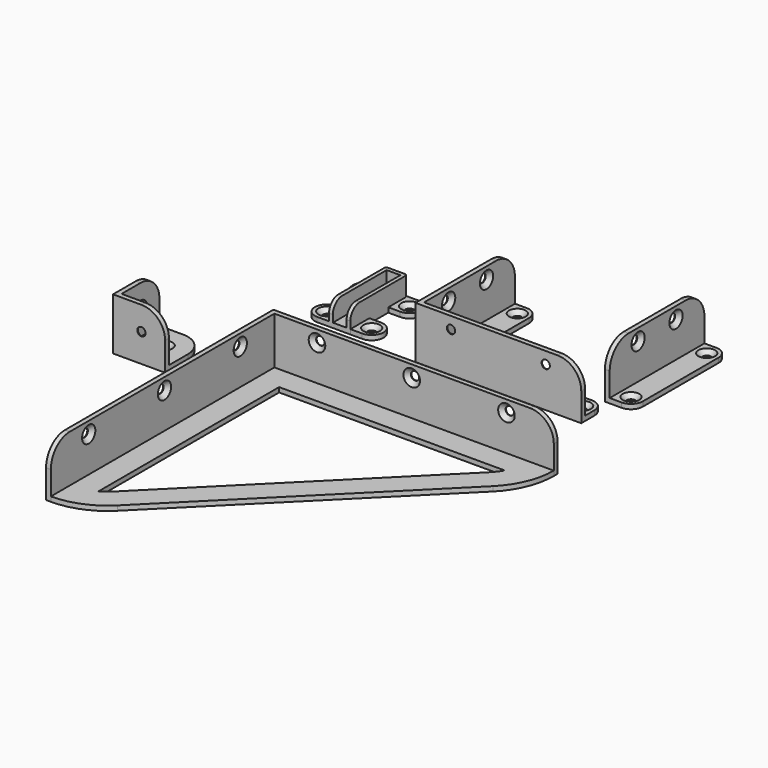
from build123d import *

# Parameters (mm, degrees)
F0_W                     = 5.8
F0_H                     = 28.4
F1_DEPTH                 = 2
F2_DEPTH                 = 10
F4_R                     = 5
F5_R                     = 1
F6_D                     = 3.5
F6_DEPTH                 = 20
F6_CSINK_D               = 7
F6_CSINK_ANGLE           = 90
F6_TIP                   = 1.0515060833
F11_DEPTH                = 2
F12_DEPTH                = 22
F8_W                     = 2
F8_H                     = 50
F13_R                    = 10
F13_2_R                  = 10
F13_3_R                  = 10
F13_4_R                  = 10
F23_D                    = 3.5
F23_DEPTH                = 20
F23_CSINK_D              = 7
F23_CSINK_ANGLE          = 90
F23_TIP                  = 1.0515060833
F23_ON_F15_D             = 3.5
F23_ON_F15_DEPTH         = 20
F23_ON_F15_CSINK_D       = 7
F23_ON_F15_CSINK_ANGLE   = 90
F23_ON_F15_TIP           = 1.0515060833
F23_ON_F16_D             = 3.5
F23_ON_F16_DEPTH         = 20
F23_ON_F16_CSINK_D       = 7
F23_ON_F16_CSINK_ANGLE   = 90
F23_ON_F16_TIP           = 1.0515060833
F23_ON_F16_2_D           = 3.5
F23_ON_F16_2_DEPTH       = 20
F23_ON_F16_2_CSINK_D     = 7
F23_ON_F16_2_CSINK_ANGLE = 90
F23_ON_F16_2_TIP         = 1.0515060833
F23_ON_F17_D             = 3.5
F23_ON_F17_DEPTH         = 20
F23_ON_F17_CSINK_D       = 7
F23_ON_F17_CSINK_ANGLE   = 90
F23_ON_F17_TIP           = 1.0515060833
F23_ON_F19_D             = 3.5
F23_ON_F19_DEPTH         = 20
F23_ON_F19_CSINK_D       = 7
F23_ON_F19_CSINK_ANGLE   = 90
F23_ON_F19_TIP           = 1.0515060833
F23_ON_F18_D             = 3.5
F23_ON_F18_DEPTH         = 20
F23_ON_F18_CSINK_D       = 7
F23_ON_F18_CSINK_ANGLE   = 90
F23_ON_F18_TIP           = 1.0515060833
F23_ON_F20_D             = 3.5
F23_ON_F20_DEPTH         = 20
F23_ON_F20_CSINK_D       = 7
F23_ON_F20_CSINK_ANGLE   = 90
F23_ON_F20_TIP           = 1.0515060833
F23_ON_F22_D             = 3.5
F23_ON_F22_DEPTH         = 20
F23_ON_F22_CSINK_D       = 7
F23_ON_F22_CSINK_ANGLE   = 90
F23_ON_F22_TIP           = 1.0515060833
F23_ON_F21_D             = 3.5
F23_ON_F21_DEPTH         = 20
F23_ON_F21_CSINK_D       = 7
F23_ON_F21_CSINK_ANGLE   = 90
F23_ON_F21_TIP           = 1.0515060833


with BuildPart() as f1:
    # F0 (on Top) → F1 (new body)
    with BuildSketch(Plane.XY):
        Polygon((4.5, 15), (-4.5, 15), (-4.5, -15), (-2.9, -15), (-2.9, 13.4), (2.9, 13.4), (2.9, -15), (4.5, -15), (4.5, -5), (4.5, 5), align=None)
        with BuildLine():
            Line((9.5, 15), (4.5, 15))
            Line((4.5, 15), (4.5, 5))
            Line((4.5, 5), (9.5, 5))
            ThreePointArc((9.5, 5), (14.5, 10), (9.5, 15))
        make_face()
        with Locations((0, -0.8)):
            Rectangle(F0_W, F0_H)
        with BuildLine():
            Line((9.5, -5), (4.5, -5))
            Line((4.5, -5), (4.5, -15))
            Line((4.5, -15), (9.5, -15))
            ThreePointArc((9.5, -15), (14.5, -10), (9.5, -5))
        make_face()
    extrude(amount=F1_DEPTH)

    # F0 (on Top) → F2 (join)
    with BuildSketch(Plane.XY):
        Polygon((4.5, 15), (-4.5, 15), (-4.5, -15), (-2.9, -15), (-2.9, 13.4), (2.9, 13.4), (2.9, -15), (4.5, -15), (4.5, -5), (4.5, 5), align=None)
    extrude(amount=F2_DEPTH)

    # F4
    f4_edges = [f1.edges().sort_by_distance(p)[0] for p in [
        (-3.7, -15, 10),
        (3.7, -15, 10),
    ]]
    fillet(f4_edges, radius=F4_R)

    # F5
    f5_edges = [f1.edges().sort_by_distance(p)[0] for p in [
        (4.5, 15, 6),
        (-4.5, 15, 5),
    ]]
    fillet(f5_edges, radius=F5_R)

    # F6
    with Locations(Plane.XY.offset(2)):
        with Locations((9.5, 10), (9.5, -10)):
            CounterSinkHole(F6_D / 2, F6_CSINK_D / 2, depth=F6_DEPTH, counter_sink_angle=F6_CSINK_ANGLE)
            with Locations((0, 0, -(F6_DEPTH + F6_TIP / 2))):  # 118° drill point
                Cone(0, F6_D / 2, F6_TIP, mode=Mode.SUBTRACT)


with BuildPart() as f7_1:
    # F7: instance of F1
    add(f1.part.mirror(Plane.YZ))


with BuildPart() as f11:
    # F8 (on Top) → F11 (new body)
    with BuildSketch(Plane.XY):
        with BuildLine():
            Line((40.5293784738, 33.0792527646), (35.5293784738, 33.0792527646))
            Line((35.5293784738, 33.0792527646), (35.5293784738, -14.9207472354))
            Line((35.5293784738, -14.9207472354), (103.5293784738, -14.9207472354))
            Line((103.5293784738, -14.9207472354), (103.5293784738, -9.9207472354))
            ThreePointArc((103.5293784738, -9.9207472354), (102.0649123797, -6.3852133295), (98.5293784738, -4.9207472354))
            Line((98.5293784738, -4.9207472354), (55.5293784738, -4.9207472354))
            ThreePointArc((55.5293784738, -4.9207472354), (48.4583106619, -1.9918150473), (45.5293784738, 5.0792527646))
            Line((45.5293784738, 5.0792527646), (45.5293784738, 28.0792527646))
            ThreePointArc((45.5293784738, 28.0792527646), (44.0649123797, 31.6147866705), (40.5293784738, 33.0792527646))
        make_face()
    extrude(amount=F11_DEPTH)

    # F8 (on Top) → F12 (join)
    with BuildSketch(Plane.XY):
        Polygon((35.5293784738, 33.0792527646), (33.5293784738, 33.0792527646), (33.5293784738, -16.9207472354), (103.5293784738, -16.9207472354), (103.5293784738, -14.9207472354), (35.5293784738, -14.9207472354), align=None)
    extrude(amount=F12_DEPTH)

    # F13
    f13_edges = [f11.edges().sort_by_distance(p)[0] for p in [
        (34.529378, 33.079253, 22),
        (103.529378, -15.920747, 22),
    ]]
    fillet(f13_edges, radius=F13_R)

    # F23
    with Locations(Plane.YZ.offset(35.5293784738)):
        with Locations((18.0792527646, 17), (-1.9207472354, 17)):
            CounterSinkHole(F23_D / 2, F23_CSINK_D / 2, depth=F23_DEPTH, counter_sink_angle=F23_CSINK_ANGLE)
            with Locations((0, 0, -(F23_DEPTH + F23_TIP / 2))):  # 118° drill point
                Cone(0, F23_D / 2, F23_TIP, mode=Mode.SUBTRACT)

    # F23 on F15
    with Locations(Plane(origin=(0, -14.9207472354, 0), x_dir=(-1, 0, 0), z_dir=(0, 1, 0))):
        with Locations((-48.5293784738, 17), (-88.5293784738, 17)):
            CounterSinkHole(F23_ON_F15_D / 2, F23_ON_F15_CSINK_D / 2, depth=F23_ON_F15_DEPTH, counter_sink_angle=F23_ON_F15_CSINK_ANGLE)
            with Locations((0, 0, -(F23_ON_F15_DEPTH + F23_ON_F15_TIP / 2))):  # 118° drill point
                Cone(0, F23_ON_F15_D / 2, F23_ON_F15_TIP, mode=Mode.SUBTRACT)

    # F23 on F16
    with Locations(Plane.XY.offset(2)):
        with Locations((98.5293784738, -9.9207472354), (40.5293784738, 28.0792527646), (40.5293784738, -9.9207472354), (107, 5), (107, 45)):
            CounterSinkHole(F23_ON_F16_D / 2, F23_ON_F16_CSINK_D / 2, depth=F23_ON_F16_DEPTH, counter_sink_angle=F23_ON_F16_CSINK_ANGLE)
            with Locations((0, 0, -(F23_ON_F16_DEPTH + F23_ON_F16_TIP / 2))):  # 118° drill point
                Cone(0, F23_ON_F16_D / 2, F23_ON_F16_TIP, mode=Mode.SUBTRACT)


with BuildPart() as f11b:
    # F8 (on Top) → F11, piece 2 (new body)
    with BuildSketch(Plane.XY):
        with BuildLine():
            Line((107, 50), (102, 50))
            Line((102, 50), (102, 0))
            Line((102, 0), (107, 0))
            ThreePointArc((107, 0), (110.5355339059, 1.4644660941), (112, 5))
            Line((112, 5), (112, 45))
            ThreePointArc((112, 45), (110.5355339059, 48.5355339059), (107, 50))
        make_face()
    extrude(amount=F11_DEPTH)

    # F8 (on Top) → F12, piece 2 (join)
    with BuildSketch(Plane.XY):
        with Locations((101, 25)):
            Rectangle(F8_W, F8_H)
    extrude(amount=F12_DEPTH)

    # F13#2
    f13_2_edges = [f11b.edges().sort_by_distance(p)[0] for p in [
        (101, 50, 22),
        (101, 0, 22),
    ]]
    fillet(f13_2_edges, radius=F13_2_R)

    # F23 on F16#2
    with Locations(Plane.XY.offset(2)):
        with Locations((98.5293784738, -9.9207472354), (40.5293784738, 28.0792527646), (40.5293784738, -9.9207472354), (107, 5), (107, 45)):
            CounterSinkHole(F23_ON_F16_2_D / 2, F23_ON_F16_2_CSINK_D / 2, depth=F23_ON_F16_2_DEPTH, counter_sink_angle=F23_ON_F16_2_CSINK_ANGLE)
            with Locations((0, 0, -(F23_ON_F16_2_DEPTH + F23_ON_F16_2_TIP / 2))):  # 118° drill point
                Cone(0, F23_ON_F16_2_D / 2, F23_ON_F16_2_TIP, mode=Mode.SUBTRACT)

    # F23 on F17
    with Locations(Plane.YZ.offset(102)):
        with Locations((35, 17), (15, 17)):
            CounterSinkHole(F23_ON_F17_D / 2, F23_ON_F17_CSINK_D / 2, depth=F23_ON_F17_DEPTH, counter_sink_angle=F23_ON_F17_CSINK_ANGLE)
            with Locations((0, 0, -(F23_ON_F17_DEPTH + F23_ON_F17_TIP / 2))):  # 118° drill point
                Cone(0, F23_ON_F17_D / 2, F23_ON_F17_TIP, mode=Mode.SUBTRACT)


with BuildPart() as f11c:
    # F9 (on Top) → F11, piece 3 (new body)
    with BuildSketch(Plane.XY):
        with BuildLine():
            ThreePointArc((111.2132034356, -73.2132034356), (117.7163859753, -63.480502971), (120, -52))
            Line((120, -52), (2, -52))
            Line((2, -52), (2, -170))
            ThreePointArc((2, -170), (13.480502971, -167.7163859753), (23.2132034356, -161.2132034356))
            Line((23.2132034356, -161.2132034356), (111.2132034356, -73.2132034356))
        make_face()
        with BuildLine():
            ThreePointArc((107.3205080757, -62), (105.8670668058, -64.1752285802), (104.1421356237, -66.1421356237))
            Line((104.1421356237, -66.1421356237), (16.1421356237, -154.1421356237))
            ThreePointArc((16.1421356237, -154.1421356237), (14.1752285802, -155.8670668058), (12, -157.3205080757))
            Line((12, -157.3205080757), (12, -62))
            Line((12, -62), (107.3205080757, -62))
        make_face(mode=Mode.SUBTRACT)
    extrude(amount=F11_DEPTH)

    # F9 (on Top) → F12, piece 3 (join)
    with BuildSketch(Plane.XY):
        Polygon((120, -50), (0, -50), (0, -170), (2, -170), (2, -52), (120, -52), align=None)
    extrude(amount=F12_DEPTH)

    # F13#3
    f13_3_edges = [f11c.edges().sort_by_distance(p)[0] for p in [
        (1, -170, 22),
        (120, -51, 22),
    ]]
    fillet(f13_3_edges, radius=F13_3_R)

    # F23 on F19
    with Locations(Plane.YZ.offset(2)):
        with Locations((-70, 17), (-110, 17), (-150, 17)):
            CounterSinkHole(F23_ON_F19_D / 2, F23_ON_F19_CSINK_D / 2, depth=F23_ON_F19_DEPTH, counter_sink_angle=F23_ON_F19_CSINK_ANGLE)
            with Locations((0, 0, -(F23_ON_F19_DEPTH + F23_ON_F19_TIP / 2))):  # 118° drill point
                Cone(0, F23_ON_F19_D / 2, F23_ON_F19_TIP, mode=Mode.SUBTRACT)

    # F23 on F18
    with Locations(Plane.XZ.offset(52)):
        with Locations((20, 17), (60, 17), (100, 17)):
            CounterSinkHole(F23_ON_F18_D / 2, F23_ON_F18_CSINK_D / 2, depth=F23_ON_F18_DEPTH, counter_sink_angle=F23_ON_F18_CSINK_ANGLE)
            with Locations((0, 0, -(F23_ON_F18_DEPTH + F23_ON_F18_TIP / 2))):  # 118° drill point
                Cone(0, F23_ON_F18_D / 2, F23_ON_F18_TIP, mode=Mode.SUBTRACT)


with BuildPart() as f11d:
    # F10 (on Top) → F11, piece 4 (new body)
    with BuildSketch(Plane.XY):
        with BuildLine():
            Line((-46.1518022716, -72.4698867202), (-26.1518022716, -72.4698867202))
            Line((-26.1518022716, -72.4698867202), (-26.1518022716, -62.4698867202))
            ThreePointArc((-26.1518022716, -62.4698867202), (-29.0807344597, -55.3988189083), (-36.1518022716, -52.4698867202))
            Line((-36.1518022716, -52.4698867202), (-46.1518022716, -52.4698867202))
            Line((-46.1518022716, -52.4698867202), (-46.1518022716, -72.4698867202))
        make_face()
    extrude(amount=F11_DEPTH)

    # F10 (on Top) → F12, piece 4 (join)
    with BuildSketch(Plane.XY):
        Polygon((-48.1518022716, -52.4698867202), (-48.1518022716, -74.4698867202), (-26.1518022716, -74.4698867202), (-26.1518022716, -72.4698867202), (-46.1518022716, -72.4698867202), (-46.1518022716, -52.4698867202), align=None)
    extrude(amount=F12_DEPTH)

    # F13#4
    f13_4_edges = [f11d.edges().sort_by_distance(p)[0] for p in [
        (-26.151802, -73.469887, 22),
        (-47.151802, -52.469887, 22),
    ]]
    fillet(f13_4_edges, radius=F13_4_R)

    # F23 on F20
    with Locations(Plane.YZ.offset(-46.1518022716)):
        with Locations((-62.4698867202, 12)):
            CounterSinkHole(F23_ON_F20_D / 2, F23_ON_F20_CSINK_D / 2, depth=F23_ON_F20_DEPTH, counter_sink_angle=F23_ON_F20_CSINK_ANGLE)
            with Locations((0, 0, -(F23_ON_F20_DEPTH + F23_ON_F20_TIP / 2))):  # 118° drill point
                Cone(0, F23_ON_F20_D / 2, F23_ON_F20_TIP, mode=Mode.SUBTRACT)

    # F23 on F22
    with Locations(Plane(origin=(0, -72.4698867202, 0), x_dir=(-1, 0, 0), z_dir=(0, 1, 0))):
        with Locations((36.1518022716, 12)):
            CounterSinkHole(F23_ON_F22_D / 2, F23_ON_F22_CSINK_D / 2, depth=F23_ON_F22_DEPTH, counter_sink_angle=F23_ON_F22_CSINK_ANGLE)
            with Locations((0, 0, -(F23_ON_F22_DEPTH + F23_ON_F22_TIP / 2))):  # 118° drill point
                Cone(0, F23_ON_F22_D / 2, F23_ON_F22_TIP, mode=Mode.SUBTRACT)

    # F23 on F21
    with Locations(Plane.XY.offset(2)):
        with Locations((-36.1518022716, -62.4698867202)):
            CounterSinkHole(F23_ON_F21_D / 2, F23_ON_F21_CSINK_D / 2, depth=F23_ON_F21_DEPTH, counter_sink_angle=F23_ON_F21_CSINK_ANGLE)
            with Locations((0, 0, -(F23_ON_F21_DEPTH + F23_ON_F21_TIP / 2))):  # 118° drill point
                Cone(0, F23_ON_F21_D / 2, F23_ON_F21_TIP, mode=Mode.SUBTRACT)


solid = Compound([f1.part, f7_1.part, f11.part, f11b.part, f11c.part, f11d.part])
